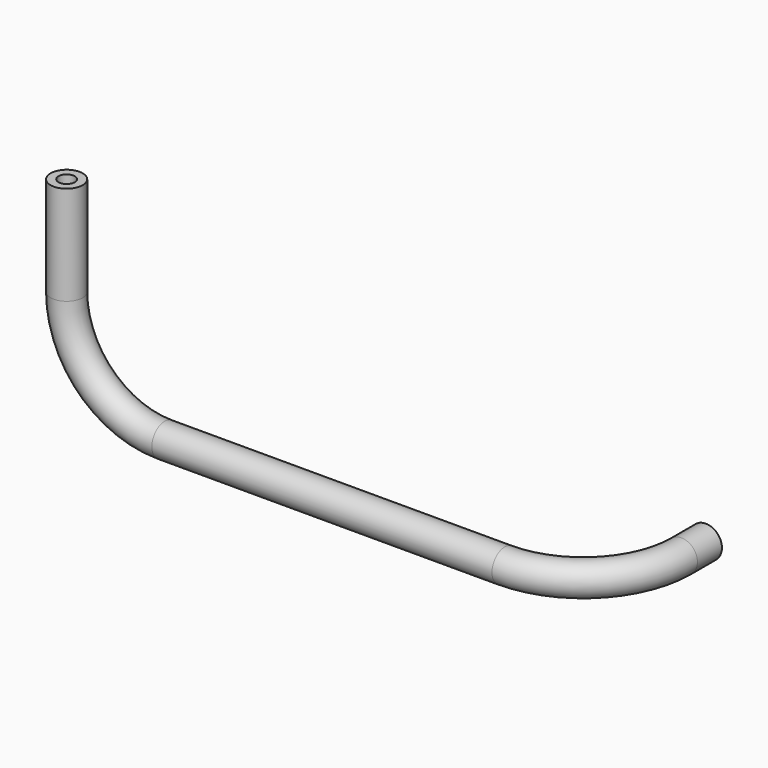
from build123d import *

# Parameters (mm, degrees)
F0_R   = 12.5
F0_R_2 = 6.35


with BuildPart() as f4:
    # F4: sweep along a path in F1, F3
    with BuildLine(Plane.XY) as f4_path:
        Line((0, 0), (0, -23.8))
        ThreePointArc((0, -23.8), (-22.3184632736, -77.6815367264), (-76.2, -100))
        Line((-76.2, -100), (-340.5, -100))
    with BuildLine(Plane.XZ.offset(100)) as f4_path_2:
        ThreePointArc((-340.5, 0), (-394.3815367264, 22.3184632736), (-416.7, 76.2))
        Line((-416.7, 76.2), (-416.7, 153.261))
    # F0 (on Front) → F4 (sweep)
    with BuildSketch(Plane.XZ):
        Circle(F0_R)
        Circle(F0_R_2, mode=Mode.SUBTRACT)
    sweep(path=f4_path.line + f4_path_2.line)


solid = f4.part
